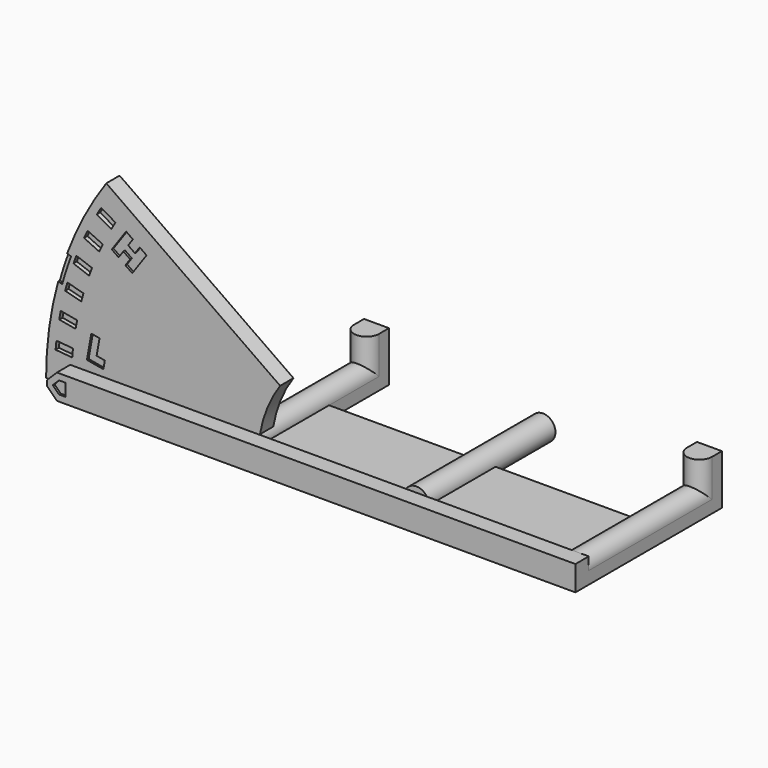
from build123d import *

# Parameters (mm, degrees)
BOX018_W                    = 1.5
BOX018_H                    = 1
BOX018_DEPTH                = 1.5
CHAMFER001_SIZE             = 0.7
CYLINDER009_W               = 39.5
CYLINDER009_H               = 15
CYLINDER009_ANGLE           = 5
CYLINDER009_ROLL_ANGLE      = 90
CYLINDER009_PITCH_ANGLE     = -15.5
CYLINDER009_PLACEMENT_ANGLE = 180
CYLINDER010_W               = 40
CYLINDER010_H               = 15
CYLINDER010_ANGLE           = 5
CYLINDER010_ROLL_ANGLE      = 90
CYLINDER010_PITCH_ANGLE     = -15.5
CYLINDER010_PLACEMENT_ANGLE = 180
BOX016_W                    = 1
BOX016_H                    = 1
BOX016_DEPTH                = 3
BOX017_W                    = 1
BOX017_H                    = 1
BOX017_DEPTH                = 1
FUSION003_PLACEMENT_ANGLE   = 10
BOX014_W                    = 1
BOX014_H                    = 1
BOX014_DEPTH                = 3
BOX013_W                    = 1
BOX013_H                    = 1
BOX013_DEPTH                = 3
BOX015_W                    = 1
BOX015_H                    = 1
BOX015_DEPTH                = 1
FUSION002_PLACEMENT_ANGLE   = 35
BOX001_W                    = 43
BOX001_H                    = 10
BOX001_DEPTH                = 1.5
BOX002_W                    = 3
BOX002_H                    = 20
BOX002_DEPTH                = 1.5
CYLINDER007_R               = 37
CYLINDER007_DEPTH           = 15
CYLINDER008_R               = 39
CYLINDER008_DEPTH           = 15
BOX011_W                    = 1
BOX011_H                    = 0.5
BOX011_DEPTH                = 63
BOX011_PLACEMENT_ANGLE      = 65
BOX010_W                    = 1
BOX010_H                    = 0.5
BOX010_DEPTH                = 63
BOX010_PLACEMENT_ANGLE      = 70
BOX009_W                    = 1
BOX009_H                    = 0.5
BOX009_DEPTH                = 63
BOX009_PLACEMENT_ANGLE      = 75
BOX008_W                    = 1
BOX008_H                    = 0.5
BOX008_DEPTH                = 63
BOX008_PLACEMENT_ANGLE      = 80
BOX007_W                    = 1
BOX007_H                    = 0.5
BOX007_DEPTH                = 63
BOX007_PLACEMENT_ANGLE      = 85
BOX012_W                    = 1
BOX012_H                    = 0.5
BOX012_DEPTH                = 63
BOX012_PLACEMENT_ANGLE      = 60
CYLINDER001_R               = 14.5
CYLINDER001_DEPTH           = 2
CYLINDER_W                  = 40
CYLINDER_H                  = 2
CYLINDER_ANGLE              = 35
CYLINDER003_R               = 1.5
CYLINDER003_DEPTH           = 4.5
BOX003_W                    = 3
BOX003_H                    = 19
BOX003_DEPTH                = 1.5
CYLINDER004_R               = 1.5
CYLINDER004_DEPTH           = 19
BOX004_W                    = 3
BOX004_H                    = 1.5
BOX004_DEPTH                = 6
CYLINDER005_R               = 1.5
CYLINDER005_DEPTH           = 22
BOX005_W                    = 3
BOX005_H                    = 1.5
BOX005_DEPTH                = 6
CYLINDER006_R               = 1.5
CYLINDER006_DEPTH           = 4.5
CYLINDER002_R               = 1.5
CYLINDER002_DEPTH           = 19
BOX_W                       = 63.5
BOX_H                       = 2
BOX_DEPTH                   = 3
CHAMFER_SIZE                = 1.2


with BuildPart() as chamfer001:
    # Box018 → Box018 (new body)
    with BuildSketch(Plane(origin=(-19.75, -1, 0.75), x_dir=(1, 0, 0), z_dir=(0, 0, 1))):
        with Locations((0.75, 0.5)):
            Rectangle(BOX018_W, BOX018_H)
    extrude(amount=BOX018_DEPTH)

    # Chamfer001
    chamfer001_edges = [chamfer001.edges().sort_by_distance(p)[0] for p in [
        (-19.75, -0.5, 2.25),
        (-19.75, -0.5, 0.75),
    ]]
    chamfer(chamfer001_edges, length=CHAMFER001_SIZE)


with BuildPart() as chamfer001_1:
    # Chamfer001 placement: moved
    add(chamfer001.part.moved(Location((0, 0.25, 0))))


with BuildPart() as cylinder009:
    # Cylinder009 → Cylinder009 (revolve)
    with BuildSketch(Plane.XZ):
        with Locations((19.75, 7.5)):
            Rectangle(CYLINDER009_W, CYLINDER009_H)
    revolve(axis=Axis((0, 0, 0), (0, 0, 1)), revolution_arc=CYLINDER009_ANGLE)


with BuildPart() as cylinder009_1:
    # Cylinder009 roll: moved
    add(cylinder009.part.rotate(Axis((0, 0, 0), (1, 0, 0)), CYLINDER009_ROLL_ANGLE))


with BuildPart() as cylinder009_2:
    # Cylinder009 pitch: moved
    add(cylinder009_1.part.rotate(Axis((0, 0, 0), (0, 1, 0)), CYLINDER009_PITCH_ANGLE))


with BuildPart() as cylinder009_3:
    # Cylinder009 placement: moved
    add(cylinder009_2.part.moved(Location((17, 3, 0))).rotate(Axis((17, 3, 0), (0, 0, 1)), CYLINDER009_PLACEMENT_ANGLE))


with BuildPart() as cut004:
    # Cylinder010 → Cylinder010 (revolve)
    with BuildSketch(Plane.XZ):
        with Locations((20, 7.5)):
            Rectangle(CYLINDER010_W, CYLINDER010_H)
    revolve(axis=Axis((0, 0, 0), (0, 0, 1)), revolution_arc=CYLINDER010_ANGLE)


with BuildPart() as cut004_1:
    # Cylinder010 roll: moved
    add(cut004.part.rotate(Axis((0, 0, 0), (1, 0, 0)), CYLINDER010_ROLL_ANGLE))


with BuildPart() as cut004_2:
    # Cylinder010 pitch: moved
    add(cut004_1.part.rotate(Axis((0, 0, 0), (0, 1, 0)), CYLINDER010_PITCH_ANGLE))


with BuildPart() as cut004_3:
    # Cylinder010 placement: moved
    add(cut004_2.part.moved(Location((17, 3, 0))).rotate(Axis((17, 3, 0), (0, 0, 1)), CYLINDER010_PLACEMENT_ANGLE))

    # Cut004: cut Cylinder009
    add(cylinder009_3.part, mode=Mode.SUBTRACT)


with BuildPart() as cut004_4:
    # Cut004 placement: moved
    add(cut004_3.part.moved(Location((0, -14.75, 0))))


with BuildPart() as cube016:
    # Box016 → Box016 (new body)
    with BuildSketch(Plane.XY):
        with Locations((0.5, 0.5)):
            Rectangle(BOX016_W, BOX016_H)
    extrude(amount=BOX016_DEPTH)


with BuildPart() as fusion003:
    # Box017 → Box017 (new body)
    with BuildSketch(Plane(origin=(1, 0, 0), x_dir=(1, 0, 0), z_dir=(0, 0, 1))):
        with Locations((0.5, 0.5)):
            Rectangle(BOX017_W, BOX017_H)
    extrude(amount=BOX017_DEPTH)

    # Fusion003: union Cube016
    add(cube016.part)


with BuildPart() as fusion003_1:
    # Fusion003 placement: moved
    add(fusion003.part.moved(Location((-18.086824, 0, 3.507596))).rotate(Axis((-18.086824, 0, 3.507596), (0, 1, 0)), FUSION003_PLACEMENT_ANGLE))


with BuildPart() as cube014:
    # Box014 → Box014 (new body)
    with BuildSketch(Plane(origin=(2, 0, 0), x_dir=(1, 0, 0), z_dir=(0, 0, 1))):
        with Locations((0.5, 0.5)):
            Rectangle(BOX014_W, BOX014_H)
    extrude(amount=BOX014_DEPTH)


with BuildPart() as cube013:
    # Box013 → Box013 (new body)
    with BuildSketch(Plane.XY):
        with Locations((0.5, 0.5)):
            Rectangle(BOX013_W, BOX013_H)
    extrude(amount=BOX013_DEPTH)


with BuildPart() as fusion004:
    # Box015 → Box015 (new body)
    with BuildSketch(Plane(origin=(1, 0, 1), x_dir=(1, 0, 0), z_dir=(0, 0, 1))):
        with Locations((0.5, 0.5)):
            Rectangle(BOX015_W, BOX015_H)
    extrude(amount=BOX015_DEPTH)

    # Fusion002: union Cube014, Cube013
    add(cube014.part)
    add(cube013.part)


with BuildPart() as fusion004_1:
    # Fusion002 placement: moved
    add(fusion004.part.moved(Location((-15.10594, 0, 16.164))).rotate(Axis((-15.10594, 0, 16.164), (0, 1, 0)), FUSION002_PLACEMENT_ANGLE))

    # Fusion004: union Fusion003
    add(fusion003_1.part)


with BuildPart() as fusion004_2:
    # Fusion004 placement: moved
    add(fusion004_1.part.moved(Location((0, 2.25, 0))))


with BuildPart() as cube001:
    # Box001 → Box001 (new body)
    with BuildSketch(Plane(origin=(0, 3, 0), x_dir=(1, 0, 0), z_dir=(0, 0, 1))):
        with Locations((21.5, 5)):
            Rectangle(BOX001_W, BOX001_H)
    extrude(amount=BOX001_DEPTH)


with BuildPart() as cube002:
    # Box002 → Box002 (new body)
    with BuildSketch(Plane(origin=(40, 2, 0), x_dir=(1, 0, 0), z_dir=(0, 0, 1))):
        with Locations((1.5, 10)):
            Rectangle(BOX002_W, BOX002_H)
    extrude(amount=BOX002_DEPTH)


with BuildPart() as cylinder007:
    # Cylinder007 → Cylinder007 (new body)
    with BuildSketch(Plane(origin=(17, 3, 0), x_dir=(1, 0, 0), z_dir=(0, 1, 0))):
        Circle(CYLINDER007_R)
    extrude(amount=CYLINDER007_DEPTH)


with BuildPart() as cylinder008:
    # Cylinder008 → Cylinder008 (new body)
    with BuildSketch(Plane(origin=(17, 3, 0), x_dir=(1, 0, 0), z_dir=(0, 1, 0))):
        Circle(CYLINDER008_R)
    extrude(amount=CYLINDER008_DEPTH)


with BuildPart() as cube011:
    # Box011 → Box011 (new body)
    with BuildSketch(Plane.XY):
        with Locations((0.5, 0.25)):
            Rectangle(BOX011_W, BOX011_H)
    extrude(amount=BOX011_DEPTH)


with BuildPart() as cube011_1:
    # Box011 placement: moved
    add(cube011.part.moved(Location((16.5, 3, 0))).rotate(Axis((16.5, 3, 0), (0, -1, 0)), BOX011_PLACEMENT_ANGLE))


with BuildPart() as cube010:
    # Box010 → Box010 (new body)
    with BuildSketch(Plane.XY):
        with Locations((0.5, 0.25)):
            Rectangle(BOX010_W, BOX010_H)
    extrude(amount=BOX010_DEPTH)


with BuildPart() as cube010_1:
    # Box010 placement: moved
    add(cube010.part.moved(Location((16.5, 3, 0))).rotate(Axis((16.5, 3, 0), (0, -1, 0)), BOX010_PLACEMENT_ANGLE))


with BuildPart() as cube009:
    # Box009 → Box009 (new body)
    with BuildSketch(Plane.XY):
        with Locations((0.5, 0.25)):
            Rectangle(BOX009_W, BOX009_H)
    extrude(amount=BOX009_DEPTH)


with BuildPart() as cube009_1:
    # Box009 placement: moved
    add(cube009.part.moved(Location((16.5, 3, 0))).rotate(Axis((16.5, 3, 0), (0, -1, 0)), BOX009_PLACEMENT_ANGLE))


with BuildPart() as cube008:
    # Box008 → Box008 (new body)
    with BuildSketch(Plane.XY):
        with Locations((0.5, 0.25)):
            Rectangle(BOX008_W, BOX008_H)
    extrude(amount=BOX008_DEPTH)


with BuildPart() as cube008_1:
    # Box008 placement: moved
    add(cube008.part.moved(Location((16.5, 3, 0))).rotate(Axis((16.5, 3, 0), (0, -1, 0)), BOX008_PLACEMENT_ANGLE))


with BuildPart() as cube007:
    # Box007 → Box007 (new body)
    with BuildSketch(Plane.XY):
        with Locations((0.5, 0.25)):
            Rectangle(BOX007_W, BOX007_H)
    extrude(amount=BOX007_DEPTH)


with BuildPart() as cube007_1:
    # Box007 placement: moved
    add(cube007.part.moved(Location((16.5, 3, 0))).rotate(Axis((16.5, 3, 0), (0, -1, 0)), BOX007_PLACEMENT_ANGLE))


with BuildPart() as cut001:
    # Box012 → Box012 (new body)
    with BuildSketch(Plane.XY):
        with Locations((0.5, 0.25)):
            Rectangle(BOX012_W, BOX012_H)
    extrude(amount=BOX012_DEPTH)


with BuildPart() as cut001_1:
    # Box012 placement: moved
    add(cut001.part.moved(Location((16.5, 3, 0))).rotate(Axis((16.5, 3, 0), (0, -1, 0)), BOX012_PLACEMENT_ANGLE))

    # Fusion: union Cube011, Cube010, Cube009, Cube008, Cube007
    add(cube011_1.part)
    add(cube010_1.part)
    add(cube009_1.part)
    add(cube008_1.part)
    add(cube007_1.part)

    # Common: intersect Cylinder008
    add(cylinder008.part, mode=Mode.INTERSECT)

    # Cut001: cut Cylinder007
    add(cylinder007.part, mode=Mode.SUBTRACT)


with BuildPart() as cylinder001:
    # Cylinder001 → Cylinder001 (new body)
    with BuildSketch(Plane(origin=(17, 3, 0), x_dir=(1, 0, 0), z_dir=(0, 1, 0))):
        Circle(CYLINDER001_R)
    extrude(amount=CYLINDER001_DEPTH)


with BuildPart() as cut002:
    # Cylinder → Cylinder (revolve)
    with BuildSketch(Plane(origin=(17, 3, 0), x_dir=(-1, 0, 0), z_dir=(0, 0, -1))):
        with Locations((20, 1)):
            Rectangle(CYLINDER_W, CYLINDER_H)
    revolve(axis=Axis((17, 3, 0), (0, 1, 0)), revolution_arc=CYLINDER_ANGLE)

    # Cut: cut Cylinder001
    add(cylinder001.part, mode=Mode.SUBTRACT)

    # Cut002: cut Cut001
    add(cut001_1.part, mode=Mode.SUBTRACT)


with BuildPart() as cylinder003:
    # Cylinder003 → Cylinder003 (new body)
    with BuildSketch(Plane(origin=(1.5, 20.5, 1.5), x_dir=(1, 0, 0), z_dir=(0, 0, 1))):
        Circle(CYLINDER003_R)
    extrude(amount=CYLINDER003_DEPTH)


with BuildPart() as cube003:
    # Box003 → Box003 (new body)
    with BuildSketch(Plane(origin=(0, 3, 0), x_dir=(1, 0, 0), z_dir=(0, 0, 1))):
        with Locations((1.5, 9.5)):
            Rectangle(BOX003_W, BOX003_H)
    extrude(amount=BOX003_DEPTH)


with BuildPart() as cylinder004:
    # Cylinder004 → Cylinder004 (new body)
    with BuildSketch(Plane(origin=(21.5, 3, 1.5), x_dir=(1, 0, 0), z_dir=(0, 1, 0))):
        Circle(CYLINDER004_R)
    extrude(amount=CYLINDER004_DEPTH)


with BuildPart() as cube004:
    # Box004 → Box004 (new body)
    with BuildSketch(Plane(origin=(0, 20.5, 0), x_dir=(1, 0, 0), z_dir=(0, 0, 1))):
        with Locations((1.5, 0.75)):
            Rectangle(BOX004_W, BOX004_H)
    extrude(amount=BOX004_DEPTH)


with BuildPart() as cylinder005:
    # Cylinder005 → Cylinder005 (new body)
    with BuildSketch(Plane(origin=(41.5, 0, 1.5), x_dir=(1, 0, 0), z_dir=(0, 1, 0))):
        Circle(CYLINDER005_R)
    extrude(amount=CYLINDER005_DEPTH)


with BuildPart() as cube005:
    # Box005 → Box005 (new body)
    with BuildSketch(Plane(origin=(40, 20.5, 0), x_dir=(1, 0, 0), z_dir=(0, 0, 1))):
        with Locations((1.5, 0.75)):
            Rectangle(BOX005_W, BOX005_H)
    extrude(amount=BOX005_DEPTH)


with BuildPart() as cylinder006:
    # Cylinder006 → Cylinder006 (new body)
    with BuildSketch(Plane(origin=(41.5, 20.5, 1.5), x_dir=(1, 0, 0), z_dir=(0, 0, 1))):
        Circle(CYLINDER006_R)
    extrude(amount=CYLINDER006_DEPTH)


with BuildPart() as cylinder002:
    # Cylinder002 → Cylinder002 (new body)
    with BuildSketch(Plane(origin=(1.5, 3, 1.5), x_dir=(1, 0, 0), z_dir=(0, 1, 0))):
        Circle(CYLINDER002_R)
    extrude(amount=CYLINDER002_DEPTH)


with BuildPart() as cut006:
    # Box → Box (new body)
    with BuildSketch(Plane(origin=(-20.5, 0, 0), x_dir=(1, 0, 0), z_dir=(0, 0, 1))):
        with Locations((31.75, 1)):
            Rectangle(BOX_W, BOX_H)
    extrude(amount=BOX_DEPTH)

    # Chamfer
    chamfer_edges = [cut006.edges().sort_by_distance(p)[0] for p in [
        (-20.5, 1, 3),
        (-20.5, 1, 0),
    ]]
    chamfer(chamfer_edges, length=CHAMFER_SIZE)

    # Fusion001: union Cube001, Cube002, Cut002, Cylinder003, Cube003, Cylinder004, Cube004, Cylinder005, Cube005, Cylinder006, Cylinder002
    add(cube001.part)
    add(cube002.part)
    add(cut002.part)
    add(cylinder003.part)
    add(cube003.part)
    add(cylinder004.part)
    add(cube004.part)
    add(cylinder005.part)
    add(cube005.part)
    add(cylinder006.part)
    add(cylinder002.part)

    # Cut003: cut Fusion004
    add(fusion004_2.part, mode=Mode.SUBTRACT)

    # Cut005: cut Cut004
    add(cut004_4.part, mode=Mode.SUBTRACT)

    # Cut006: cut Chamfer001
    add(chamfer001_1.part, mode=Mode.SUBTRACT)


solid = cut006.part
